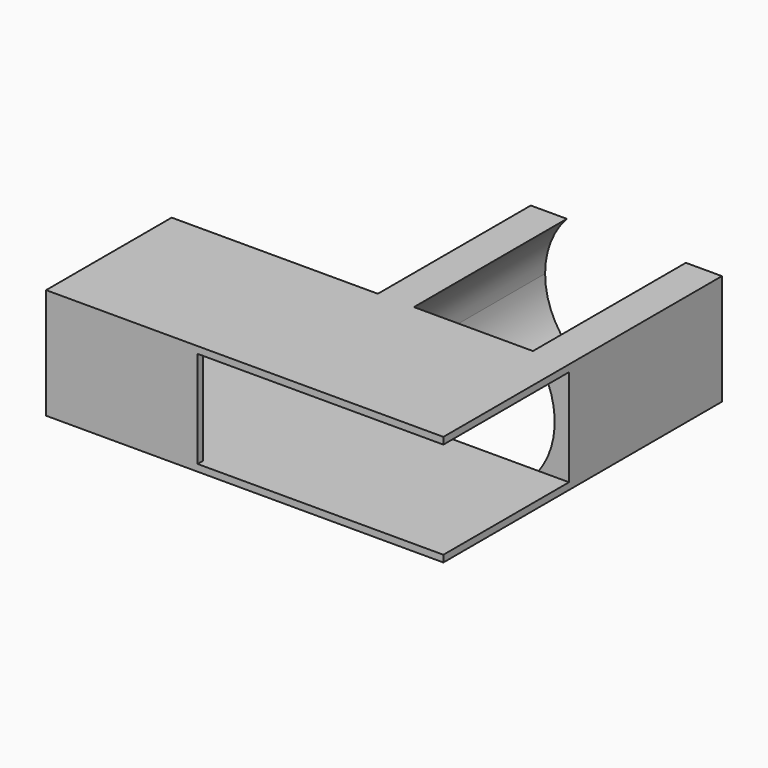
from build123d import *

# Parameters (mm, degrees)
F0_W     = 14
F0_H     = 14
F1_DEPTH = 8.1
F2_W     = 18
F2_H     = 7.1
F3_DEPTH = 11.5
F5_DEPTH = 14
F6_W     = 11
F6_H     = 7.1
F7_DEPTH = 25


with BuildPart() as f1:
    # F0 (on Top) → F1 (new body)
    with BuildSketch(Plane.XY):
        Polygon((0, 11.5), (0, 0), (29.1, 0), (29.1, 11.5), (15.1, 11.5), align=None)
        with Locations((22.1, 18.5)):
            Rectangle(F0_W, F0_H)
    extrude(amount=F1_DEPTH)

    # F2 (on face) → F3 (cut)
    with BuildSketch(Plane.XZ):
        with Locations((20.1, 4.05)):
            Rectangle(F2_W, F2_H)
    extrude(amount=-F3_DEPTH, mode=Mode.SUBTRACT)

    # F4 (on face) → F5 (cut)
    with BuildSketch(Plane(origin=(0, 25.5, 0), x_dir=(-1, 0, 0), z_dir=(0, 1, 0))):
        with BuildLine():
            ThreePointArc((-17.741101, 0), (-16.562042, 1.874333), (-16.15, 4.05))
            ThreePointArc((-16.15, 4.05), (-16.562042, 6.225667), (-17.741101, 8.1))
            Line((-17.741101, 8.1), (-26.458899, 8.1))
            ThreePointArc((-26.458899, 8.1), (-28.05, 4.05), (-26.458899, 0))
            Line((-26.458899, 0), (-17.741101, 0))
        make_face()
    extrude(amount=-F5_DEPTH, mode=Mode.SUBTRACT)

    # F6 (on face) → F7 (cut)
    with BuildSketch(Plane(origin=(0, 0, 0), x_dir=(0, -1, 0), z_dir=(-1, 0, 0))):
        with Locations((-6, 4.05)):
            Rectangle(F6_W, F6_H)
    extrude(amount=-F7_DEPTH, mode=Mode.SUBTRACT)


solid = f1.part
